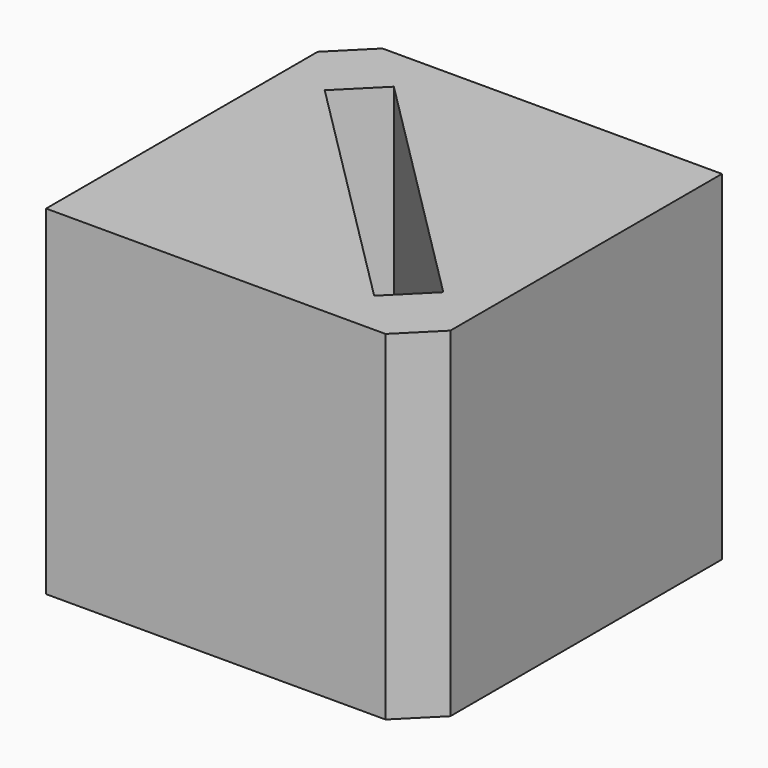
from build123d import *

# Parameters (mm, degrees)
F1_DEPTH = 20
F3_DEPTH = 19


with BuildPart() as f1:
    # F0 (on Top) → F1 (new body)
    with BuildSketch(Plane.XY):
        Polygon((20, 10), (0, 10), (-2.12132, 7.87868), (-2.12132, -12.12132), (17.87868, -12.12132), (20, -10), align=None)
    extrude(amount=F1_DEPTH)

    # F2 (on face) → F3 (cut)
    with BuildSketch(Plane.XY.offset(20)):
        Polygon((2.787511, 7.353911), (1.65614, 6.22254), (8.93934, -1.06066), (16.22254, -8.34386), (17.353911, -7.212489), align=None)
        Polygon((8.93934, -1.06066), (1.65614, 6.22254), (0.524769, 5.091169), (15.091169, -9.475231), (16.22254, -8.34386), align=None)
    extrude(amount=-F3_DEPTH, mode=Mode.SUBTRACT)


solid = f1.part
